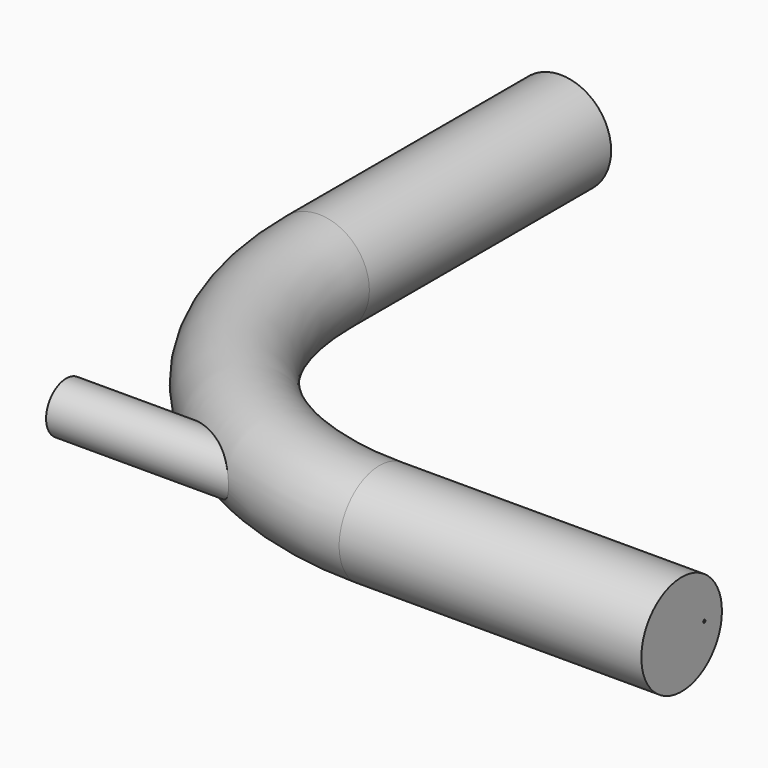
from build123d import *

# Parameters (mm, degrees)
F1_R     = 12.7
F1_R_2   = 0.3463313715
F4_R     = 6.35
F5_DEPTH = 45.9864238844


with BuildPart() as f2:
    # F2: sweep along a path in F0
    with BuildLine(Plane.XY) as f2_path:
        Line((0, 0), (0, -76.2))
        ThreePointArc((0, -76.2), (22.3184632736, -130.0815367264), (76.2, -152.4))
        Line((76.2, -152.4), (152.4, -152.4))
    # F1 (on Front) → F2 (sweep)
    with BuildSketch(Plane.XZ):
        Circle(F1_R)
        with Locations((7.1575159242, 0)):
            Circle(F1_R_2, mode=Mode.SUBTRACT)
    sweep(path=f2_path.line)

    # F4 (on line) → F5 (join, through all)
    with BuildSketch(Plane(origin=(-2.7819916686, 0, 0), x_dir=(0, -1, 0), z_dir=(-1, 0, 0))):
        with Locations((152.4, 0)):
            Circle(F4_R)
    extrude(amount=-F5_DEPTH)


solid = f2.part
